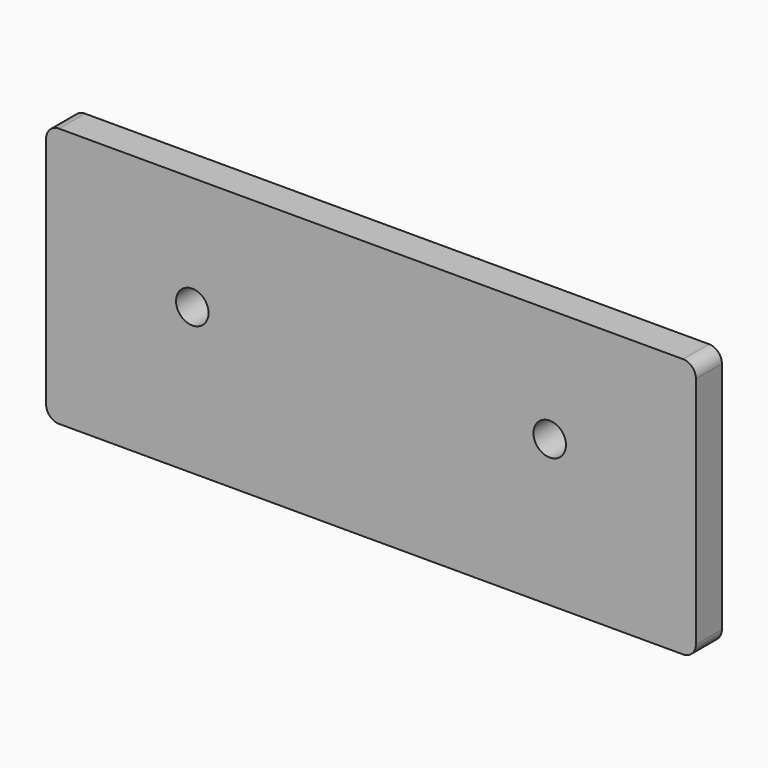
from build123d import *

# Parameters (mm, degrees)
F0_W     = 254
F0_H     = 101.6
F1_DEPTH = 12.7
F3_D     = 12.7
F4_R     = 5.08


with BuildPart() as f1:
    # F0 (on Front) → F1 (new body)
    with BuildSketch(Plane.XZ):
        with Locations((127, 50.8)):
            Rectangle(F0_W, F0_H)
    extrude(amount=F1_DEPTH)

    # F3 (through all)
    with Locations(Plane.XZ.offset(12.7)):
        with Locations((57.15, 57.15), (196.85, 57.15)):
            Hole(F3_D / 2)

    # F4
    f4_edges = [f1.edges().sort_by_distance(p)[0] for p in [
        (254, -6.35, 101.6),
        (254, -6.35, 0),
        (0, -6.35, 0),
        (0, -6.35, 101.6),
    ]]
    fillet(f4_edges, radius=F4_R)


solid = f1.part
